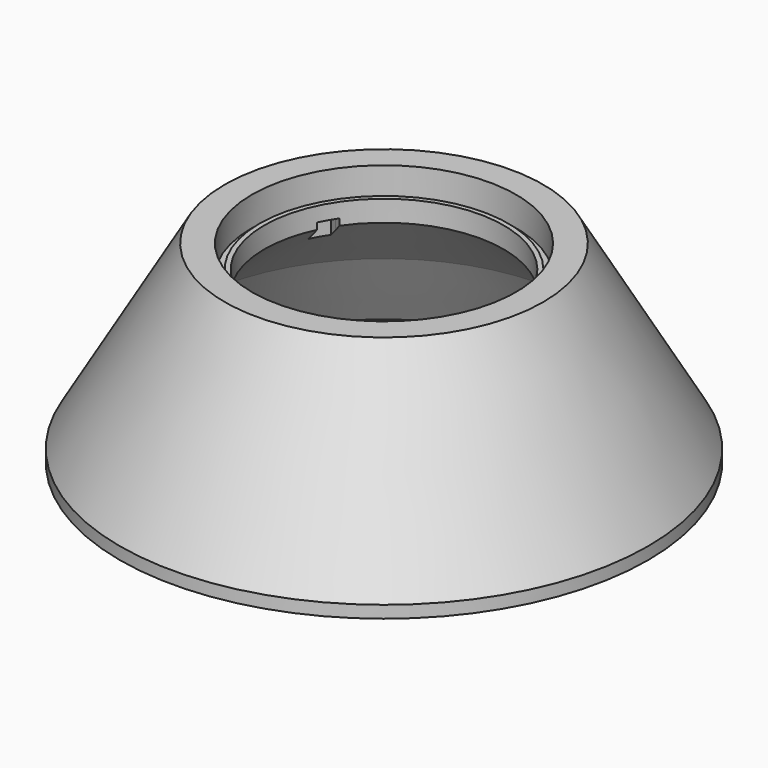
from build123d import *

# Parameters (mm, degrees)
F4_DEPTH = 25.4


with BuildPart() as f1:
    # F0 (on Front) → F1 (revolve)
    with BuildSketch(Plane.XZ):
        Polygon((-83.82, 18.745402), (-83.82, 14.483047), (-88.9, 14.483047), (-88.9, 34.294205), (-107.182943, 34.294205), (-177.8, -87.390703), (-177.8, -95.645703), (-162.954339, -95.645703), (-133.013525, -44.052713), (-80.645, 4.534993), (-80.645, 18.745402), align=None)
    revolve(axis=Axis((0, 0, -6.240661), (0, 0, -1)))

    # F3 (on offset) → F4 (cut)
    with BuildSketch(Plane.XY.offset(8.894205)):
        Polygon((6.35, -86.36), (6.35, -66.04), (-6.35, -66.04), (-6.35, -86.36), (-6.35, -92.71), (6.35, -92.71), align=None)
        Polygon((-54.017318, 38.519261), (-71.614954, 48.679261), (-77.114215, 51.854261), (-83.464215, 40.855739), (-77.964954, 37.680739), (-60.367318, 27.520739), align=None)
        Polygon((60.367318, 27.520739), (77.964954, 37.680739), (83.464215, 40.855739), (77.114215, 51.854261), (71.614954, 48.679261), (54.017318, 38.519261), align=None)
    extrude(amount=-F4_DEPTH, mode=Mode.SUBTRACT)


solid = f1.part
